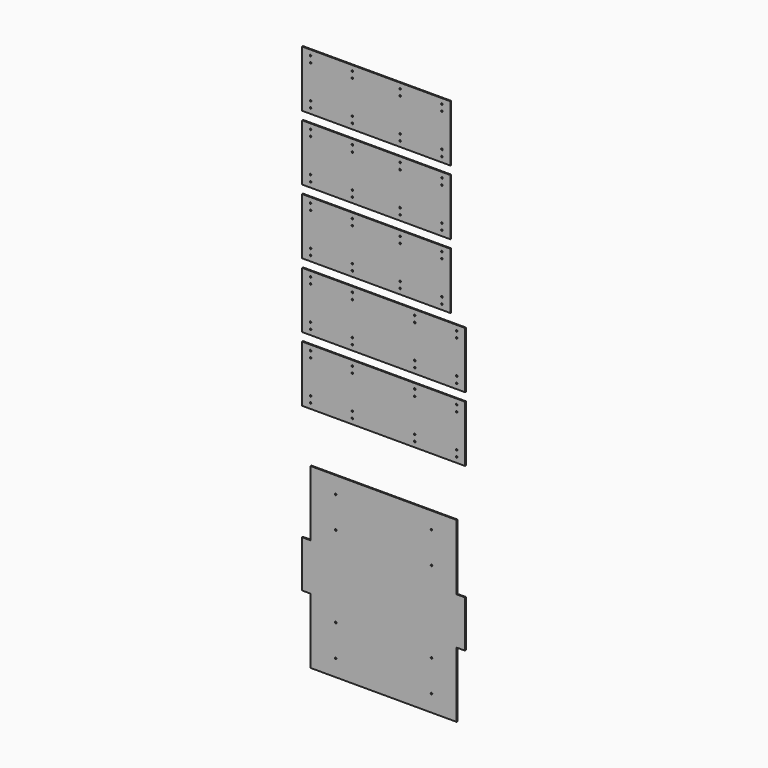
from build123d import *

# Parameters (mm, degrees)
F0_W     = 449.2625
F0_H     = 171.45
F0_R     = 2.38125
F0_W_2   = 493.7125
F1_DEPTH = 3.175


with BuildPart() as f1:
    # F0 (on Front) → F1 (new body)
    with BuildSketch(Plane.XZ):
        with Locations((224.63125, -85.725)):
            Rectangle(F0_W, F0_H)
        with Locations((25.4, -155.575)):
            Circle(F0_R, mode=Mode.SUBTRACT)
        with Locations((25.4, -136.525)):
            Circle(F0_R, mode=Mode.SUBTRACT)
        with Locations((25.4, -34.925)):
            Circle(F0_R, mode=Mode.SUBTRACT)
        with Locations((25.4, -15.875)):
            Circle(F0_R, mode=Mode.SUBTRACT)
        with Locations((152.4, -155.575)):
            Circle(F0_R, mode=Mode.SUBTRACT)
        with Locations((152.4, -136.525)):
            Circle(F0_R, mode=Mode.SUBTRACT)
        with Locations((152.4, -34.925)):
            Circle(F0_R, mode=Mode.SUBTRACT)
        with Locations((152.4, -15.875)):
            Circle(F0_R, mode=Mode.SUBTRACT)
        with Locations((296.8625, -155.575)):
            Circle(F0_R, mode=Mode.SUBTRACT)
        with Locations((296.8625, -136.525)):
            Circle(F0_R, mode=Mode.SUBTRACT)
        with Locations((296.8625, -34.925)):
            Circle(F0_R, mode=Mode.SUBTRACT)
        with Locations((296.8625, -15.875)):
            Circle(F0_R, mode=Mode.SUBTRACT)
        with Locations((423.8625, -155.575)):
            Circle(F0_R, mode=Mode.SUBTRACT)
        with Locations((423.8625, -136.525)):
            Circle(F0_R, mode=Mode.SUBTRACT)
        with Locations((423.8625, -34.925)):
            Circle(F0_R, mode=Mode.SUBTRACT)
        with Locations((423.8625, -15.875)):
            Circle(F0_R, mode=Mode.SUBTRACT)
        with Locations((246.85625, -676.275)):
            Rectangle(F0_W_2, F0_H)
        with Locations((25.4, -746.125)):
            Circle(F0_R, mode=Mode.SUBTRACT)
        with Locations((25.4, -727.075)):
            Circle(F0_R, mode=Mode.SUBTRACT)
        with Locations((25.4, -625.475)):
            Circle(F0_R, mode=Mode.SUBTRACT)
        with Locations((25.4, -606.425)):
            Circle(F0_R, mode=Mode.SUBTRACT)
        with Locations((152.4, -746.125)):
            Circle(F0_R, mode=Mode.SUBTRACT)
        with Locations((152.4, -727.075)):
            Circle(F0_R, mode=Mode.SUBTRACT)
        with Locations((152.4, -625.475)):
            Circle(F0_R, mode=Mode.SUBTRACT)
        with Locations((152.4, -606.425)):
            Circle(F0_R, mode=Mode.SUBTRACT)
        with Locations((341.3125, -746.125)):
            Circle(F0_R, mode=Mode.SUBTRACT)
        with Locations((341.3125, -727.075)):
            Circle(F0_R, mode=Mode.SUBTRACT)
        with Locations((341.3125, -625.475)):
            Circle(F0_R, mode=Mode.SUBTRACT)
        with Locations((341.3125, -606.425)):
            Circle(F0_R, mode=Mode.SUBTRACT)
        with Locations((468.3125, -746.125)):
            Circle(F0_R, mode=Mode.SUBTRACT)
        with Locations((468.3125, -727.075)):
            Circle(F0_R, mode=Mode.SUBTRACT)
        with Locations((468.3125, -625.475)):
            Circle(F0_R, mode=Mode.SUBTRACT)
        with Locations((468.3125, -606.425)):
            Circle(F0_R, mode=Mode.SUBTRACT)
        with Locations((224.63125, -282.575)):
            Rectangle(F0_W, F0_H)
        with Locations((25.4, -352.425)):
            Circle(F0_R, mode=Mode.SUBTRACT)
        with Locations((25.4, -333.375)):
            Circle(F0_R, mode=Mode.SUBTRACT)
        with Locations((25.4, -231.775)):
            Circle(F0_R, mode=Mode.SUBTRACT)
        with Locations((25.4, -212.725)):
            Circle(F0_R, mode=Mode.SUBTRACT)
        with Locations((152.4, -352.425)):
            Circle(F0_R, mode=Mode.SUBTRACT)
        with Locations((152.4, -333.375)):
            Circle(F0_R, mode=Mode.SUBTRACT)
        with Locations((152.4, -231.775)):
            Circle(F0_R, mode=Mode.SUBTRACT)
        with Locations((152.4, -212.725)):
            Circle(F0_R, mode=Mode.SUBTRACT)
        with Locations((296.8625, -352.425)):
            Circle(F0_R, mode=Mode.SUBTRACT)
        with Locations((296.8625, -333.375)):
            Circle(F0_R, mode=Mode.SUBTRACT)
        with Locations((296.8625, -231.775)):
            Circle(F0_R, mode=Mode.SUBTRACT)
        with Locations((296.8625, -212.725)):
            Circle(F0_R, mode=Mode.SUBTRACT)
        with Locations((423.8625, -352.425)):
            Circle(F0_R, mode=Mode.SUBTRACT)
        with Locations((423.8625, -333.375)):
            Circle(F0_R, mode=Mode.SUBTRACT)
        with Locations((423.8625, -231.775)):
            Circle(F0_R, mode=Mode.SUBTRACT)
        with Locations((423.8625, -212.725)):
            Circle(F0_R, mode=Mode.SUBTRACT)
        with Locations((224.63125, -479.425)):
            Rectangle(F0_W, F0_H)
        with Locations((25.4, -549.275)):
            Circle(F0_R, mode=Mode.SUBTRACT)
        with Locations((25.4, -530.225)):
            Circle(F0_R, mode=Mode.SUBTRACT)
        with Locations((25.4, -428.625)):
            Circle(F0_R, mode=Mode.SUBTRACT)
        with Locations((152.4, -549.275)):
            Circle(F0_R, mode=Mode.SUBTRACT)
        with Locations((152.4, -530.225)):
            Circle(F0_R, mode=Mode.SUBTRACT)
        with Locations((152.4, -428.625)):
            Circle(F0_R, mode=Mode.SUBTRACT)
        with Locations((25.4, -409.575)):
            Circle(F0_R, mode=Mode.SUBTRACT)
        with Locations((152.4, -409.575)):
            Circle(F0_R, mode=Mode.SUBTRACT)
        with Locations((296.8625, -549.275)):
            Circle(F0_R, mode=Mode.SUBTRACT)
        with Locations((296.8625, -530.225)):
            Circle(F0_R, mode=Mode.SUBTRACT)
        with Locations((296.8625, -428.625)):
            Circle(F0_R, mode=Mode.SUBTRACT)
        with Locations((423.8625, -549.275)):
            Circle(F0_R, mode=Mode.SUBTRACT)
        with Locations((423.8625, -530.225)):
            Circle(F0_R, mode=Mode.SUBTRACT)
        with Locations((423.8625, -428.625)):
            Circle(F0_R, mode=Mode.SUBTRACT)
        with Locations((296.8625, -409.575)):
            Circle(F0_R, mode=Mode.SUBTRACT)
        with Locations((423.8625, -409.575)):
            Circle(F0_R, mode=Mode.SUBTRACT)
        with Locations((246.85625, -873.125)):
            Rectangle(F0_W_2, F0_H)
        with Locations((25.4, -942.975)):
            Circle(F0_R, mode=Mode.SUBTRACT)
        with Locations((25.4, -923.925)):
            Circle(F0_R, mode=Mode.SUBTRACT)
        with Locations((152.4, -942.975)):
            Circle(F0_R, mode=Mode.SUBTRACT)
        with Locations((152.4, -923.925)):
            Circle(F0_R, mode=Mode.SUBTRACT)
        with Locations((341.3125, -942.975)):
            Circle(F0_R, mode=Mode.SUBTRACT)
        with Locations((341.3125, -923.925)):
            Circle(F0_R, mode=Mode.SUBTRACT)
        with Locations((468.3125, -942.975)):
            Circle(F0_R, mode=Mode.SUBTRACT)
        with Locations((468.3125, -923.925)):
            Circle(F0_R, mode=Mode.SUBTRACT)
        with Locations((25.4, -822.325)):
            Circle(F0_R, mode=Mode.SUBTRACT)
        with Locations((25.4, -803.275)):
            Circle(F0_R, mode=Mode.SUBTRACT)
        with Locations((152.4, -822.325)):
            Circle(F0_R, mode=Mode.SUBTRACT)
        with Locations((152.4, -803.275)):
            Circle(F0_R, mode=Mode.SUBTRACT)
        with Locations((341.3125, -822.325)):
            Circle(F0_R, mode=Mode.SUBTRACT)
        with Locations((341.3125, -803.275)):
            Circle(F0_R, mode=Mode.SUBTRACT)
        with Locations((468.3125, -822.325)):
            Circle(F0_R, mode=Mode.SUBTRACT)
        with Locations((468.3125, -803.275)):
            Circle(F0_R, mode=Mode.SUBTRACT)
        Polygon((25.4, -1309.6875), (0, -1309.6875), (0, -1451.76875), (25.4, -1451.76875), (25.4, -1650.20625), (468.3125, -1650.20625), (468.3125, -1451.76875), (493.7125, -1451.76875), (493.7125, -1309.6875), (468.3125, -1309.6875), (468.3125, -1111.25), (25.4, -1111.25), align=None)
        with Locations((101.6, -1599.40625)):
            Circle(F0_R, mode=Mode.SUBTRACT)
        with Locations((101.6, -1504.15625)):
            Circle(F0_R, mode=Mode.SUBTRACT)
        with Locations((101.6, -1257.3)):
            Circle(F0_R, mode=Mode.SUBTRACT)
        with Locations((101.6, -1162.05)):
            Circle(F0_R, mode=Mode.SUBTRACT)
        with Locations((392.1125, -1599.40625)):
            Circle(F0_R, mode=Mode.SUBTRACT)
        with Locations((392.1125, -1504.15625)):
            Circle(F0_R, mode=Mode.SUBTRACT)
        with Locations((392.1125, -1257.3)):
            Circle(F0_R, mode=Mode.SUBTRACT)
        with Locations((392.1125, -1162.05)):
            Circle(F0_R, mode=Mode.SUBTRACT)
    extrude(amount=F1_DEPTH)


solid = f1.part
